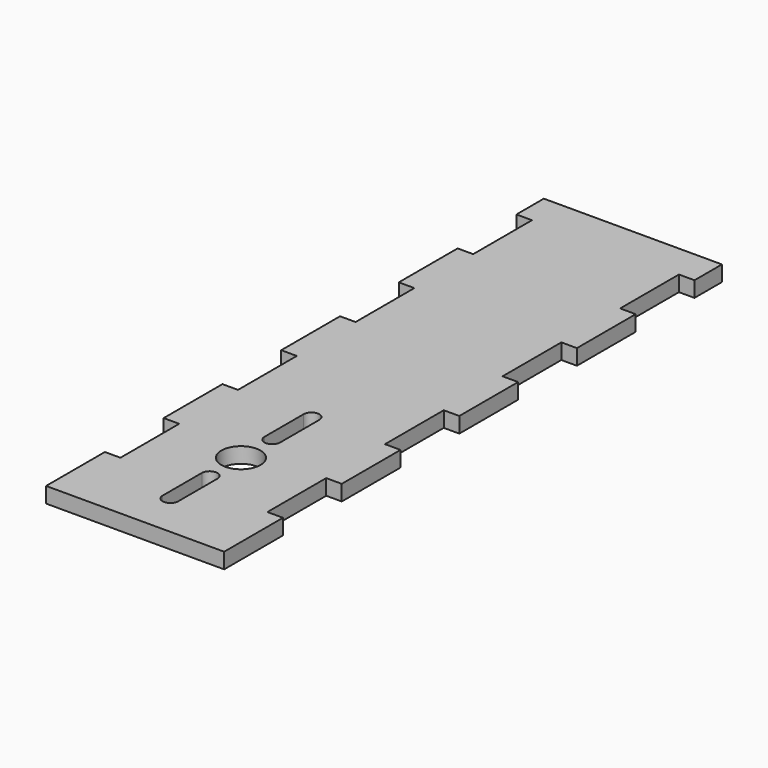
from build123d import *

# Parameters (mm, degrees)
F1_DEPTH  = 3.175
F1_FACE_W = 30
F1_FACE_H = 3.175
F2_DEPTH  = 45
F3_R      = 4
F3_W      = 3.175
F3_H      = 10
F4_DEPTH  = 25
F5_W      = 15
F5_H      = 3.175
F6_DEPTH  = 3.175
F7_W      = 15
F7_H      = 3.175
F8_DEPTH  = 3.175


with BuildPart() as f1:
    # F0 (on Top) → F1 (new body)
    with BuildSketch(Plane.XY):
        Polygon((-15, -41), (15, -41), (15, -26), (18.175, -26), (18.175, -11), (15, -11), (15, 4), (18.175, 4), (18.175, 19), (15, 19), (15, 34), (18.175, 34), (18.175, 41), (-18.175, 41), (-18.175, 34), (-15, 34), (-15, 19), (-18.175, 19), (-18.175, 4), (-15, 4), (-15, -11), (-18.175, -11), (-18.175, -26), (-15, -26), align=None)
    extrude(amount=F1_DEPTH)

    # F1_face (on face) → F2 (join)
    with BuildSketch(Plane(origin=(0, -41, 1.5875), x_dir=(1, 0, 0), z_dir=(0, -1, 0))):
        Rectangle(F1_FACE_W, F1_FACE_H)
    extrude(amount=F2_DEPTH)

    # F3 (on face) → F4 (cut)
    with BuildSketch(Plane.XY.offset(3.175)):
        with Locations((0, -59)):
            Circle(F3_R)
        with BuildLine():
            ThreePointArc((-1.5875, -51), (0, -52.5875), (1.5875, -51))
            Line((1.5875, -51), (-1.5875, -51))
        make_face()
        with Locations((0, -46)):
            Rectangle(F3_W, F3_H)
        with BuildLine():
            Line((-1.5875, -41), (1.5875, -41))
            ThreePointArc((1.5875, -41), (0, -39.4125), (-1.5875, -41))
        make_face()
        with BuildLine():
            ThreePointArc((-1.5875, -77), (0, -78.5875), (1.5875, -77))
            Line((1.5875, -77), (-1.5875, -77))
        make_face()
        with Locations((0, -72)):
            Rectangle(F3_W, F3_H)
        with BuildLine():
            Line((-1.5875, -67), (1.5875, -67))
            ThreePointArc((1.5875, -67), (0, -65.4125), (-1.5875, -67))
        make_face()
    extrude(amount=-F4_DEPTH, mode=Mode.SUBTRACT)

    # F5 (on face) → F6 (join)
    with BuildSketch(Plane.YZ.offset(15)):
        with Locations((-78.5, 1.5875)):
            Rectangle(F5_W, F5_H)
        with Locations((-48.5, 1.5875)):
            Rectangle(F5_W, F5_H)
    extrude(amount=F6_DEPTH)

    # F7 (on face) → F8 (join)
    with BuildSketch(Plane(origin=(-15, 0, 0), x_dir=(0, -1, 0), z_dir=(-1, 0, 0))):
        with Locations((48.5, 1.5875)):
            Rectangle(F7_W, F7_H)
        with Locations((78.5, 1.5875)):
            Rectangle(F7_W, F7_H)
    extrude(amount=F8_DEPTH)


solid = f1.part
